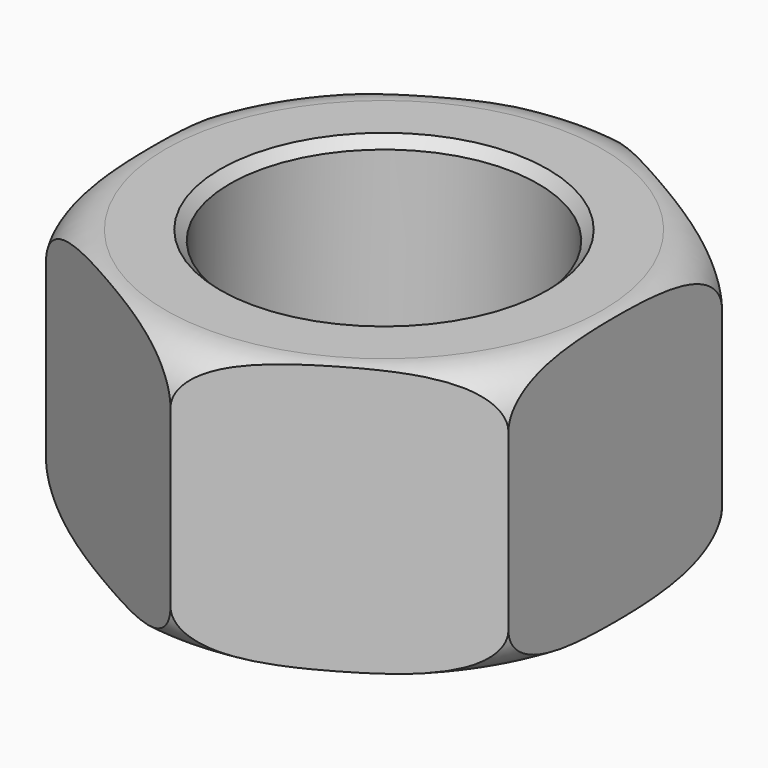
from build123d import *

# Parameters (mm, degrees)
F0_R     = 13.748153
F0_R_2   = 7.9375
F1_DEPTH = 14
F3_R     = 2.5
F2_R     = 16.813718
F4_DEPTH = 25
F5_SIZE  = 0.5


with BuildPart() as f1:
    # F0 (on Top) → F1 (new body)
    with BuildSketch(Plane.XY):
        Circle(F0_R)
        Circle(F0_R_2, mode=Mode.SUBTRACT)
    extrude(amount=F1_DEPTH)

    # F3
    f3_edges = [f1.edges().sort_by_distance(p)[0] for p in [
        (-13.748153, 0, 14),
        (-13.748153, 0, 0),
    ]]
    fillet(f3_edges, radius=F3_R)

    # F2 (on face) → F4 (cut)
    with BuildSketch(Plane.XY.offset(14)):
        Circle(F2_R)
        Polygon((-11.90625, 6.874077), (0, 13.748153), (11.90625, 6.874077), (11.90625, -6.874077), (0, -13.748153), (-11.90625, -6.874077), align=None, mode=Mode.SUBTRACT)
    extrude(amount=-F4_DEPTH, mode=Mode.SUBTRACT)

    # F5
    f5_edges = [f1.edges().sort_by_distance(p)[0] for p in [
        (7.9375, 0, 7),
        (-7.9375, 0, 0),
        (-7.9375, 0, 14),
    ]]
    chamfer(f5_edges, length=F5_SIZE)


solid = f1.part
